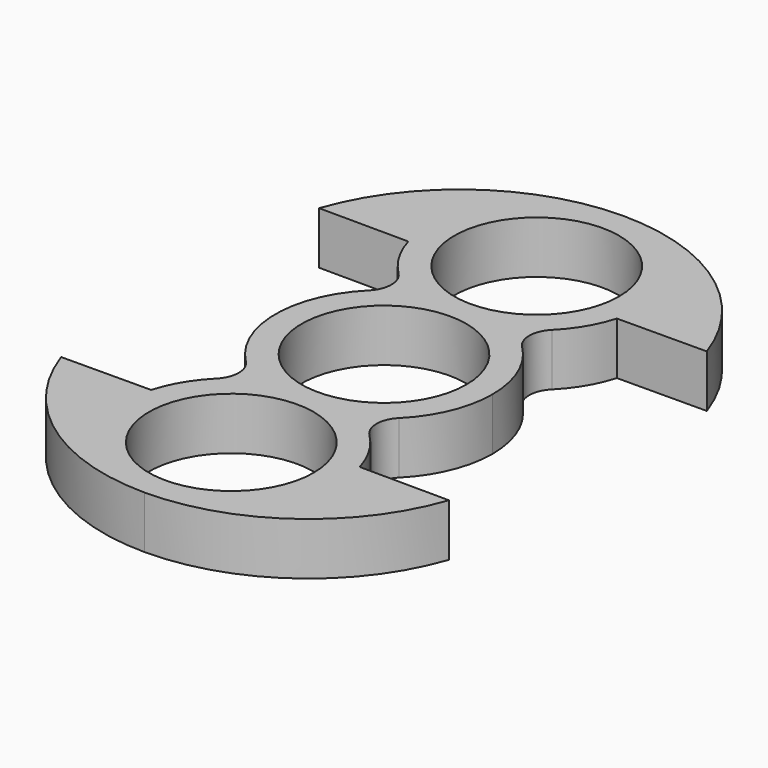
from build123d import *

# Parameters (mm, degrees)
F1_R     = 10.99185
F2_DEPTH = 7


with BuildPart() as f2:
    # F1 (on Top) → F2 (new body)
    with BuildSketch(Plane.XY):
        Circle(F1_R)
        with BuildLine():
            ThreePointArc((10.2314, -10.263146), (13.384424, -5.556159), (14.49185, 0))
            ThreePointArc((14.49185, 0), (13.384424, 5.556159), (10.2314, 10.263146))
            ThreePointArc((10.2314, 10.263146), (9.202438, 12.74185), (10.2314, 15.220554))
            ThreePointArc((10.2314, 15.220554), (12.472478, 18.104607), (13.921297, 21.457384))
            ThreePointArc((13.921297, 21.457384), (11.583663, 34.191885), (0, 39.97555))
            ThreePointArc((0, 39.97555), (-11.583663, 34.191885), (-13.921297, 21.457384))
            ThreePointArc((-13.921297, 21.457384), (-12.472478, 18.104607), (-10.2314, 15.220554))
            ThreePointArc((-10.2314, 15.220554), (-9.202438, 12.74185), (-10.2314, 10.263146))
            ThreePointArc((-10.2314, 10.263146), (-14.49185, 0), (-10.2314, -10.263146))
            ThreePointArc((-10.2314, -10.263146), (-9.202438, -12.74185), (-10.2314, -15.220554))
            ThreePointArc((-10.2314, -15.220554), (-12.472478, -18.104607), (-13.921297, -21.457384))
            ThreePointArc((-13.921297, -21.457384), (-11.583663, -34.191885), (0, -39.97555))
            ThreePointArc((0, -39.97555), (11.583663, -34.191885), (13.921297, -21.457384))
            ThreePointArc((13.921297, -21.457384), (12.472478, -18.104607), (10.2314, -15.220554))
            ThreePointArc((10.2314, -15.220554), (9.202438, -12.74185), (10.2314, -10.263146))
        make_face()
        with Locations((0, -25.4837)):
            Circle(F1_R, mode=Mode.SUBTRACT)
        Circle(F1_R, mode=Mode.SUBTRACT)
        with Locations((0, 25.4837)):
            Circle(F1_R, mode=Mode.SUBTRACT)
        with BuildLine():
            Line((25.880013, -21.519277), (13.921297, -21.457384))
            ThreePointArc((13.921297, -21.457384), (11.583663, -34.191885), (0, -39.97555))
            ThreePointArc((0, -39.97555), (15.893466, -34.888855), (25.880013, -21.519277))
        make_face()
        with BuildLine():
            ThreePointArc((0, 39.97555), (11.583663, 34.191885), (13.921297, 21.457384))
            Line((13.921297, 21.457384), (25.880013, 21.519277))
            ThreePointArc((25.880013, 21.519277), (15.893466, 34.888855), (0, 39.97555))
        make_face()
        with BuildLine():
            ThreePointArc((-25.880013, -21.519277), (-15.893466, -34.888855), (0, -39.97555))
            ThreePointArc((0, -39.97555), (-11.583663, -34.191885), (-13.921297, -21.457384))
            Line((-13.921297, -21.457384), (-25.880013, -21.519277))
        make_face()
        with BuildLine():
            ThreePointArc((-13.921297, 21.457384), (-11.583663, 34.191885), (0, 39.97555))
            ThreePointArc((0, 39.97555), (-15.893466, 34.888855), (-25.880013, 21.519277))
            Line((-25.880013, 21.519277), (-13.921297, 21.457384))
        make_face()
    extrude(amount=F2_DEPTH)


solid = f2.part
